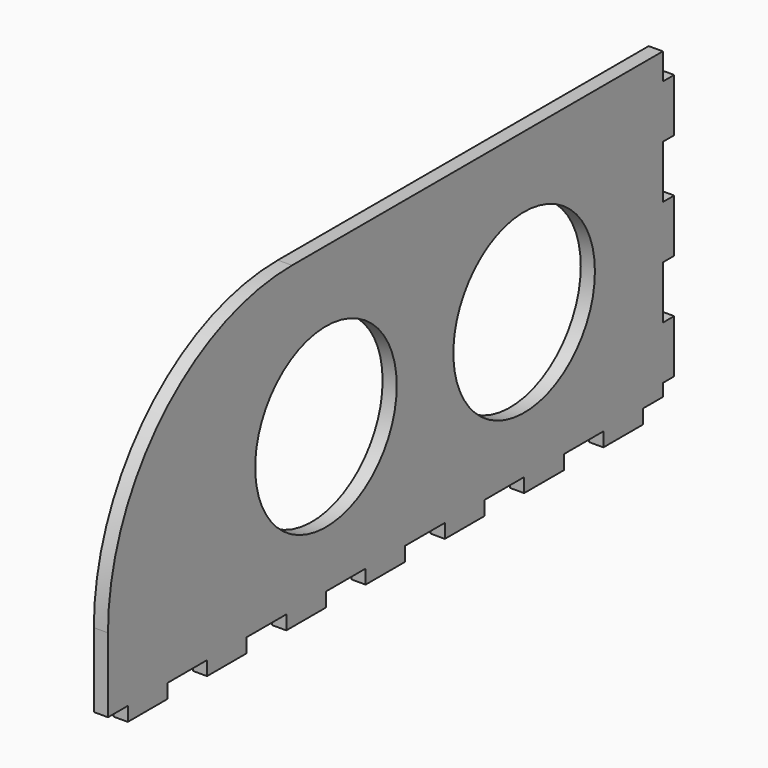
from build123d import *

# Parameters (mm, degrees)
SKETCH062_W     = 200
SKETCH062_H     = 90
PAD031_DEPTH    = 4
SKETCH063_R     = 25
SKETCH063_W     = 7
SKETCH063_H     = 4
SKETCH063_W_2   = 14
SKETCH063_W_3   = 4
SKETCH063_H_2   = 15
SKETCH063_H_3   = 7.5
POCKET027_DEPTH = 4
FILLET_R        = 65


with BuildPart() as part:
    # Sketch062 → Pad031 (new body)
    with BuildSketch(Plane.YZ):
        Rectangle(SKETCH062_W, SKETCH062_H)
    extrude(amount=PAD031_DEPTH)

    # Sketch063 (on Face6 of Pad031) → Pocket027 (cut)
    with BuildSketch(Plane.YZ.offset(4)):
        with Locations((-23, 0)):
            Circle(SKETCH063_R)
        with Locations((47, 0)):
            Circle(SKETCH063_R)
        with Locations((-96.5, -43)):
            Rectangle(SKETCH063_W, SKETCH063_H)
        with Locations((-72, -43)):
            Rectangle(SKETCH063_W_2, SKETCH063_H)
        with Locations((-44, -43)):
            Rectangle(SKETCH063_W_2, SKETCH063_H)
        with Locations((-16, -43)):
            Rectangle(SKETCH063_W_2, SKETCH063_H)
        with Locations((12, -43)):
            Rectangle(SKETCH063_W_2, SKETCH063_H)
        with Locations((40, -43)):
            Rectangle(SKETCH063_W_2, SKETCH063_H)
        with Locations((68, -43)):
            Rectangle(SKETCH063_W_2, SKETCH063_H)
        with Locations((98, -15)):
            Rectangle(SKETCH063_W_3, SKETCH063_H_2)
        with Locations((98, 15)):
            Rectangle(SKETCH063_W_3, SKETCH063_H_2)
        with Locations((98, 41.25)):
            Rectangle(SKETCH063_W_3, SKETCH063_H_3)
        Polygon((89, -45), (89, -41), (96, -41), (96, -37.5), (100, -37.5), (100, -45), align=None)
    extrude(amount=-POCKET027_DEPTH, mode=Mode.SUBTRACT)

    # Fillet
    fillet_edges = [part.edges().sort_by_distance(p)[0] for p in [
        (2, -100, 45),
    ]]
    fillet(fillet_edges, radius=FILLET_R)


with BuildPart() as part_1:
    # Body031 placement: moved
    add(part.part.moved(Location((-664, -402, 0))))


solid = part_1.part
